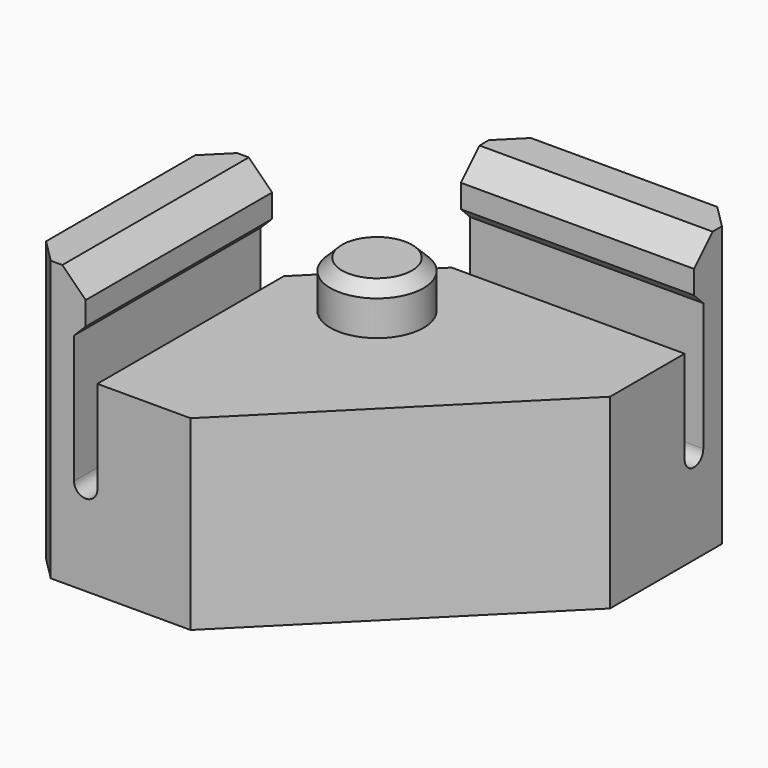
from build123d import *

# Parameters (mm, degrees)
PAD_DEPTH       = 12
POCKET_DEPTH    = 10.1
POCKET001_DEPTH = 10.1
SKETCH003_W     = 15.841853
SKETCH003_H     = 14.91592
POCKET002_DEPTH = 4
SKETCH004_R     = 2
PAD001_DEPTH    = 2
CHAMFER_SIZE    = 0.5
CHAMFER001_SIZE = 1


with BuildPart() as part:
    # Sketch → Pad (new body)
    with BuildSketch(Plane.XY):
        Polygon((0, 7), (10, 7), (10, 0), (0, -10), (-7, -10), (-7, 0), (-4, 0), (0, 4), align=None)
    extrude(amount=PAD_DEPTH)

    # Sketch001 (on Face4 of Pad) → Pocket (cut)
    with BuildSketch(Plane.XZ.offset(10)):
        with BuildLine():
            Line((-4.5, 10), (-4.5, 13.32))
            Line((-4.5, 13.32), (-4, 13.32))
            Line((-4, 13.32), (-4, 4))
            ThreePointArc((-5, 4), (-4.5, 3.5), (-4, 4))
            Line((-5, 4), (-5, 9.5))
            Line((-5, 9.5), (-4.5, 10))
        make_face()
    extrude(amount=-POCKET_DEPTH, mode=Mode.SUBTRACT)

    # Sketch002 (on Face3 of Pocket) → Pocket001 (cut)
    with BuildSketch(Plane.YZ.offset(10)):
        with BuildLine():
            Line((4.5, 12.95), (4.5, 10))
            Line((4.5, 10), (5, 9.5))
            Line((5, 9.5), (5, 4))
            ThreePointArc((4, 4), (4.5, 3.5), (5, 4))
            Line((4, 4), (4, 12.95))
            Line((4, 12.95), (4.5, 12.95))
        make_face()
    extrude(amount=-POCKET001_DEPTH, mode=Mode.SUBTRACT)

    # Sketch003 (on Face5 of Pocket001) → Pocket002 (cut)
    with BuildSketch(Plane.XY.offset(12)):
        with Locations((3.700034, -3.226885)):
            Rectangle(SKETCH003_W, SKETCH003_H)
    extrude(amount=-POCKET002_DEPTH, mode=Mode.SUBTRACT)

    # Sketch004 (on Face12 of Pocket002) → Pad001 (join)
    with BuildSketch(Plane.XY.offset(8)):
        Circle(SKETCH004_R)
    extrude(amount=PAD001_DEPTH)

    # Chamfer
    chamfer_edges = [part.edges().sort_by_distance(p)[0] for p in [
        (-2, 0, 10),
    ]]
    chamfer(chamfer_edges, length=CHAMFER_SIZE)

    # Chamfer001
    chamfer001_edges = [part.edges().sort_by_distance(p)[0] for p in [
        (-7, -10, 6),
        (-7, 0, 6),
        (0, 7, 6),
        (10, 7, 6),
        (5, 4.5, 12),
        (-4.5, -5, 12),
    ]]
    chamfer(chamfer001_edges, length=CHAMFER001_SIZE)


solid = part.part
